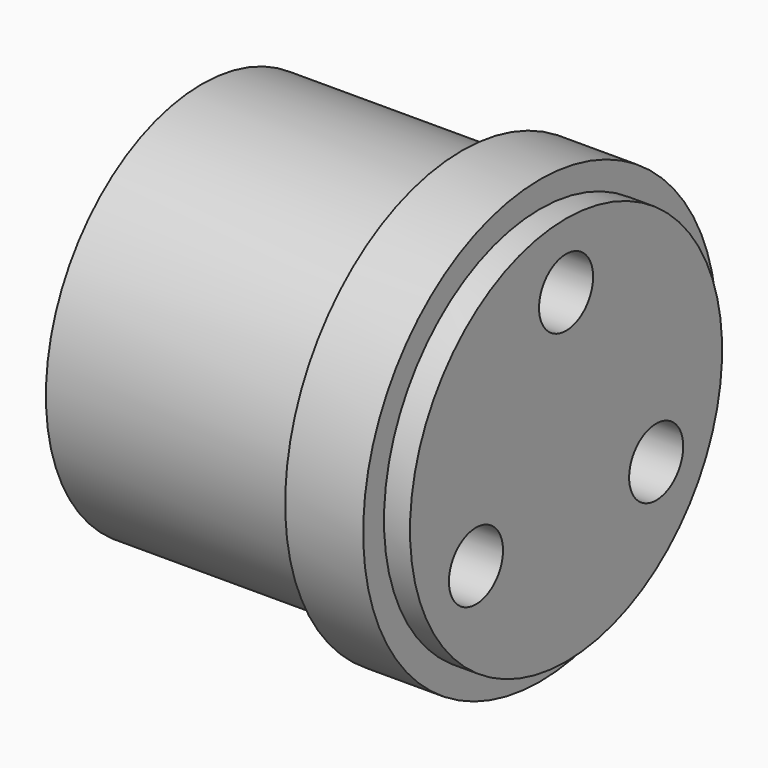
from build123d import *

# Parameters (mm, degrees)
SKETCH102_R     = 1.3
POCKET010_DEPTH = 20
SKETCH103_R     = 2
POCKET011_DEPTH = 2.4


with BuildPart() as part:
    # Sketch101 → Revolution (revolve)
    with BuildSketch(Plane.XZ):
        Polygon((0, 0), (0, 7.5), (10, 7.5), (10, 8.5), (13, 8.5), (13, 7.5), (14, 7.5), (14, 0), align=None)
    revolve(axis=Axis((0, 0, 0), (1, 0, 0)))

    # Sketch102 (on DatumPlane) → Pocket010 (cut)
    with BuildSketch(Plane(origin=(0, 0, 0), x_dir=(0, 0, -1), z_dir=(-1, 0, 0))):
        with Locations((-5, 0)):
            Circle(SKETCH102_R)
        with Locations((2.5, -4.330127)):
            Circle(SKETCH102_R)
        with Locations((2.5, 4.330127)):
            Circle(SKETCH102_R)
    extrude(amount=-POCKET010_DEPTH, mode=Mode.SUBTRACT)

    # Sketch103 (on DatumPlane) → Pocket011 (cut)
    with BuildSketch(Plane(origin=(0, 0, 0), x_dir=(0, 0, -1), z_dir=(-1, 0, 0))):
        Circle(SKETCH103_R)
    extrude(amount=-POCKET011_DEPTH, mode=Mode.SUBTRACT)


solid = part.part
